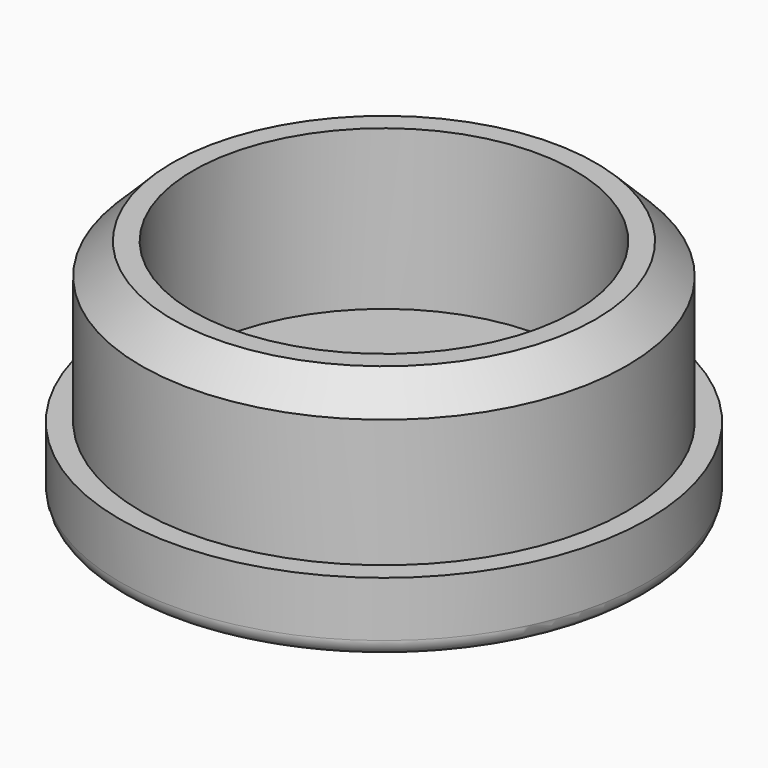
from build123d import *

# Parameters (mm, degrees)
F0_R     = 15.775
F0_R_2   = 14.5
F0_R_3   = 11.4
F1_DEPTH = 4.3
F2_DEPTH = 13.8
F3_SIZE  = 1.85
F4_R     = 1


with BuildPart() as f1:
    # F0 (on Top) → F1 (new body)
    with BuildSketch(Plane.XY):
        Circle(F0_R)
        Circle(F0_R_2, mode=Mode.SUBTRACT)
        Circle(F0_R_2)
        Circle(F0_R_3, mode=Mode.SUBTRACT)
        Circle(F0_R_3)
    extrude(amount=F1_DEPTH)

    # F0 (on Top) → F2 (join)
    with BuildSketch(Plane.XY):
        Circle(F0_R_2)
        Circle(F0_R_3, mode=Mode.SUBTRACT)
    extrude(amount=F2_DEPTH)

    # F3
    f3_edges = [f1.edges().sort_by_distance(p)[0] for p in [
        (-14.5, 0, 13.8),
    ]]
    chamfer(f3_edges, length=F3_SIZE)

    # F4
    f4_edges = [f1.edges().sort_by_distance(p)[0] for p in [
        (-15.775, 0, 0),
    ]]
    fillet(f4_edges, radius=F4_R)


solid = f1.part
